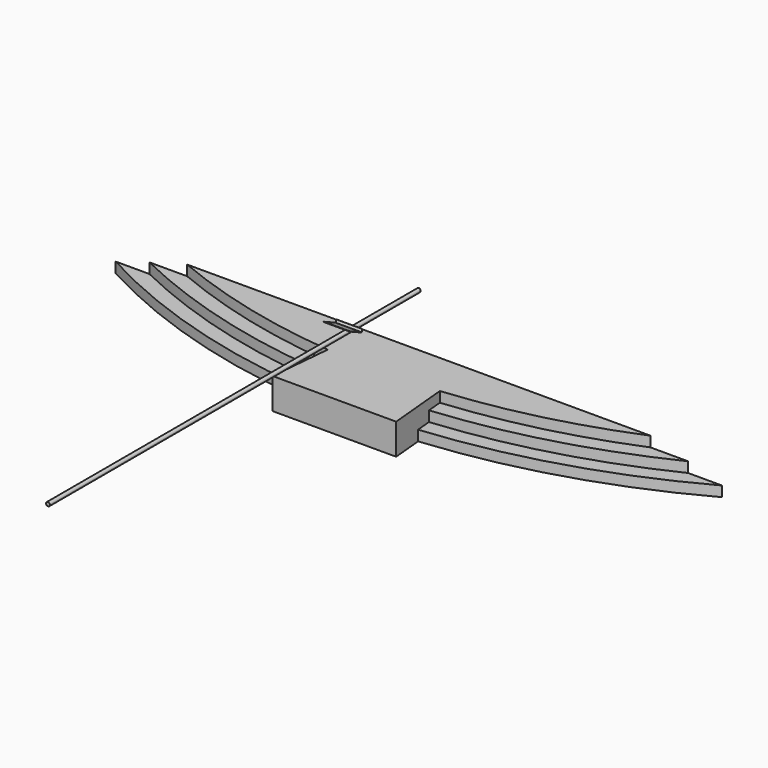
from build123d import *

# Parameters (mm, degrees)
F1_DEPTH = 609.6
F2_DEPTH = 406.4
F3_DEPTH = 203.2
F5_DEPTH = 9144
F7_DEPTH = 254


with BuildPart() as f1:
    # F0 (on Top) → F1 (new body)
    with BuildSketch(Plane.XY):
        with BuildLine():
            Line((4572, 0), (-4572, 0))
            ThreePointArc((-4572, 0), (-2871.2700615902, -562.4213708024), (-1105.3386259367, -862.8981358098))
            ThreePointArc((-1105.3386259367, -862.8981358098), (0, -914.4), (1105.3386259367, -862.8981358098))
            ThreePointArc((1105.3386259367, -862.8981358098), (2871.2700615902, -562.4213708024), (4572, 0))
        make_face()
        with BuildLine():
            ThreePointArc((0, -1524), (-581.6416681815, -1510.4569151578), (-1162.0226580358, -1469.8570145693))
            Line((-1162.022658036, -1469.8570145693), (-1219.2, -2082.0981358098))
            Line((-1219.2, -2082.0981358098), (0, -2082.0981358098))
            Line((0, -2082.0981358098), (0, -1524))
        make_face()
        with BuildLine():
            Line((1219.2, -2082.0981358098), (1162.022658036, -1469.8570145693))
            ThreePointArc((1162.0226580358, -1469.8570145693), (581.6416681815, -1510.4569151578), (0, -1524))
            Line((0, -1524), (0, -2082.0981358098))
            Line((0, -2082.0981358098), (1219.2, -2082.0981358098))
        make_face()
        with BuildLine():
            ThreePointArc((1133.6806419859, -1166.3775751896), (0, -1219.2), (-1133.6806419859, -1166.3775751896))
            Line((-1133.6806419863, -1166.3775751896), (-1162.022658036, -1469.8570145693))
            ThreePointArc((-1162.0226580358, -1469.8570145693), (-581.6416681815, -1510.4569151578), (0, -1524))
            ThreePointArc((0, -1524), (581.6416681815, -1510.4569151578), (1162.0226580358, -1469.8570145693))
            Line((1162.022658036, -1469.8570145693), (1133.6806419863, -1166.3775751896))
        make_face()
        with BuildLine():
            ThreePointArc((1105.3386259367, -862.8981358098), (0, -914.4), (-1105.3386259367, -862.8981358098))
            Line((-1105.3386259367, -862.8981358098), (-1133.6806419863, -1166.3775751896))
            ThreePointArc((-1133.6806419859, -1166.3775751896), (0, -1219.2), (1133.6806419859, -1166.3775751896))
            Line((1133.6806419863, -1166.3775751896), (1105.3386259367, -862.8981358098))
        make_face()
    extrude(amount=F1_DEPTH)

    # F0 (on Top) → F2 (join)
    with BuildSketch(Plane.XY):
        with BuildLine():
            ThreePointArc((-1105.3386259367, -862.8981358098), (-2871.2700615902, -562.4213708024), (-4572, 0))
            Line((-4572, 0), (-5314.3695919648, 0))
            ThreePointArc((-5314.3695919648, 0), (-3276.3466112218, -770.7265948154), (-1133.6806419859, -1166.3775751896))
            Line((-1133.6806419863, -1166.3775751896), (-1105.3386259367, -862.8981358098))
        make_face()
        with BuildLine():
            Line((5314.3695919648, 0), (4572, 0))
            ThreePointArc((4572, 0), (2871.2700615902, -562.4213708024), (1105.3386259367, -862.8981358098))
            Line((1105.3386259367, -862.8981358098), (1133.6806419863, -1166.3775751896))
            ThreePointArc((1133.6806419859, -1166.3775751896), (3276.3466112218, -770.7265948154), (5314.3695919648, 0))
        make_face()
    extrude(amount=F2_DEPTH)

    # F0 (on Top) → F3 (join)
    with BuildSketch(Plane.XY):
        with BuildLine():
            ThreePointArc((-1133.6806419859, -1166.3775751896), (-3276.3466112218, -770.7265948154), (-5314.3695919648, 0))
            Line((-5314.3695919648, 0), (-5980.6078620822, 0))
            ThreePointArc((-5980.6078620822, 0), (-3646.1503805452, -980.2580874707), (-1162.0226580358, -1469.8570145693))
            Line((-1162.022658036, -1469.8570145693), (-1133.6806419863, -1166.3775751896))
        make_face()
        with BuildLine():
            Line((5980.6078620822, 0), (5314.3695919648, 0))
            ThreePointArc((5314.3695919648, 0), (3276.3466112218, -770.7265948154), (1133.6806419859, -1166.3775751896))
            Line((1133.6806419863, -1166.3775751896), (1162.022658036, -1469.8570145693))
            ThreePointArc((1162.0226580358, -1469.8570145693), (3646.1503805452, -980.2580874707), (5980.6078620822, 0))
        make_face()
    extrude(amount=F3_DEPTH)


with BuildPart() as f5:
    # F4 (on Front) → F5 (new body)
    with BuildSketch(Plane.XZ):
        with BuildLine():
            ThreePointArc((0, 1612.9), (26.9407683632, 1624.0592316368), (38.1, 1651))
            ThreePointArc((38.1, 1651), (-26.9407683632, 1677.9407683632), (0, 1612.9))
        make_face()
    extrude(amount=F5_DEPTH)


with BuildPart() as f7:
    # F6 (on Right) → F7 (new body, symmetric)
    with BuildSketch(Plane.YZ):
        Polygon((-2026.3826506799, 1844.3326886685), (-2028.5295514496, 1839.7286451103), (-1878.8981358098, 1769.9543700969), (-1729.2667201701, 1700.1800950835), (-1705.1140865116, 1751.9755851127), (-1709.7181300698, 1754.1224858823), (-1731.7238629586, 1706.9310394113), align=None)
    extrude(amount=F7_DEPTH, both=True)


solid = Compound([f1.part, f5.part, f7.part])
